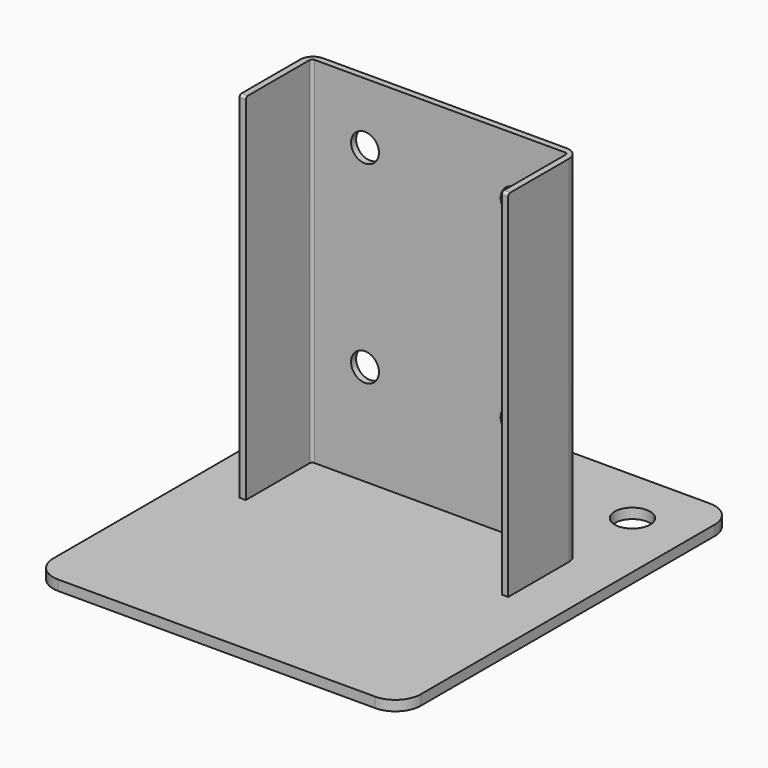
from build123d import *

# Parameters (mm, degrees)
F0_W     = 145
F0_H     = 165
F1_DEPTH = 4
F2_R     = 10
F4_DEPTH = 140
F5_R     = 5
F6_R     = 1
F7_R     = 1
F9_D     = 14
F11_D    = 11


with BuildPart() as f1:
    # F0 (on Top) → F1 (new body)
    with BuildSketch(Plane.XY):
        with Locations((-72.5, 41.823306)):
            Rectangle(F0_W, F0_H)
    extrude(amount=F1_DEPTH)

    # F2
    f2_edges = [f1.edges().sort_by_distance(p)[0] for p in [
        (0, -40.676694, 2),
        (0, 124.323306, 2),
        (-145, 124.323306, 2),
        (-145, -40.676694, 2),
    ]]
    fillet(f2_edges, radius=F2_R)

    # F3 (on face) → F4 (join)
    with BuildSketch(Plane.XY.offset(4)):
        Polygon((-19.5, 36.823306), (-19.5, 71.823306), (-125.5, 71.823306), (-125.5, 36.823306), (-123, 36.823306), (-123, 69.323306), (-22, 69.323306), (-22, 36.823306), align=None)
    extrude(amount=F4_DEPTH)

    # F5
    f5_edges = [f1.edges().sort_by_distance(p)[0] for p in [
        (-125.5, 71.823306, 74),
        (-19.5, 71.823306, 74),
    ]]
    fillet(f5_edges, radius=F5_R)

    # F6
    f6_edges = [f1.edges().sort_by_distance(p)[0] for p in [
        (-22, 69.323306, 74),
        (-123, 69.323306, 74),
    ]]
    fillet(f6_edges, radius=F6_R)

    # F7
    f7_edges = [f1.edges().sort_by_distance(p)[0] for p in [
        (-124.25, 36.823306, 144),
        (-20.75, 36.823306, 144),
    ]]
    fillet(f7_edges, radius=F7_R)

    # F9 (through all)
    with Locations(Plane.XY.offset(4)):
        with Locations((-22.5, 101.823306), (-72.5, 101.823306), (-122.5, 101.823306)):
            Hole(F9_D / 2)

    # F11 (through all)
    with Locations(Plane(origin=(0, 71.823306, 0), x_dir=(-1, 0, 0), z_dir=(0, 1, 0))):
        with Locations((102, 120), (43, 120), (43, 43.8), (102, 43.8)):
            Hole(F11_D / 2)


solid = f1.part
